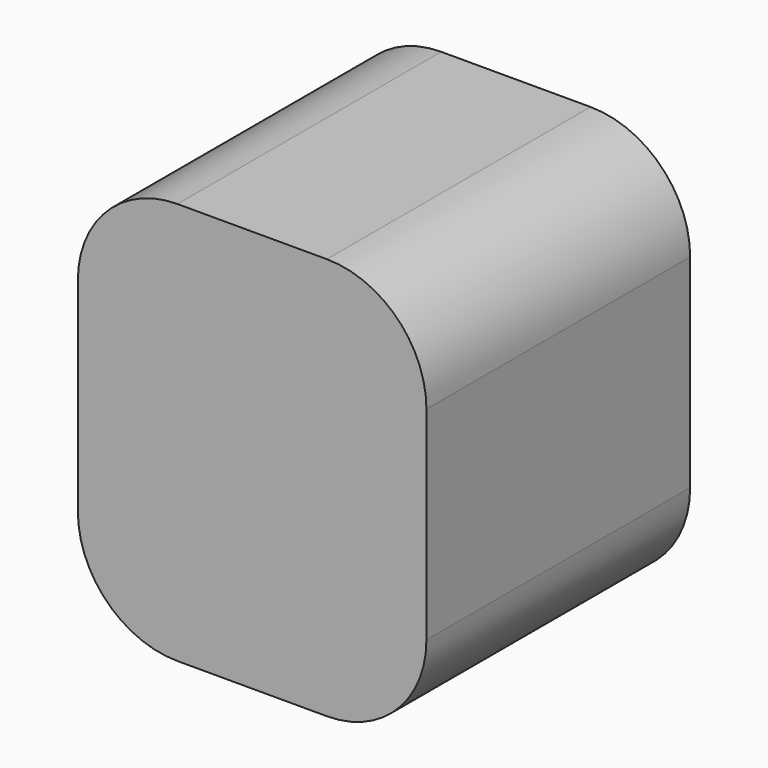
from build123d import *

# Parameters (mm, degrees)
F1_DEPTH = 16.55


with BuildPart() as f1:
    # F0 (on Front) → F1 (new body, symmetric)
    with BuildSketch(Plane.XZ):
        with BuildLine():
            ThreePointArc((-17.5, 12), (-14.571068, 4.928932), (-7.5, 2))
            Line((-7.5, 2), (7.5, 2))
            ThreePointArc((7.5, 2), (14.571068, 4.928932), (17.5, 12))
            Line((17.5, 12), (17.5, 32.4))
            ThreePointArc((17.5, 32.4), (14.571068, 39.471068), (7.5, 42.4))
            Line((7.5, 42.4), (-7.5, 42.4))
            ThreePointArc((-7.5, 42.4), (-14.571068, 39.471068), (-17.5, 32.4))
            Line((-17.5, 32.4), (-17.5, 12))
        make_face()
    extrude(amount=F1_DEPTH, both=True)


solid = f1.part
